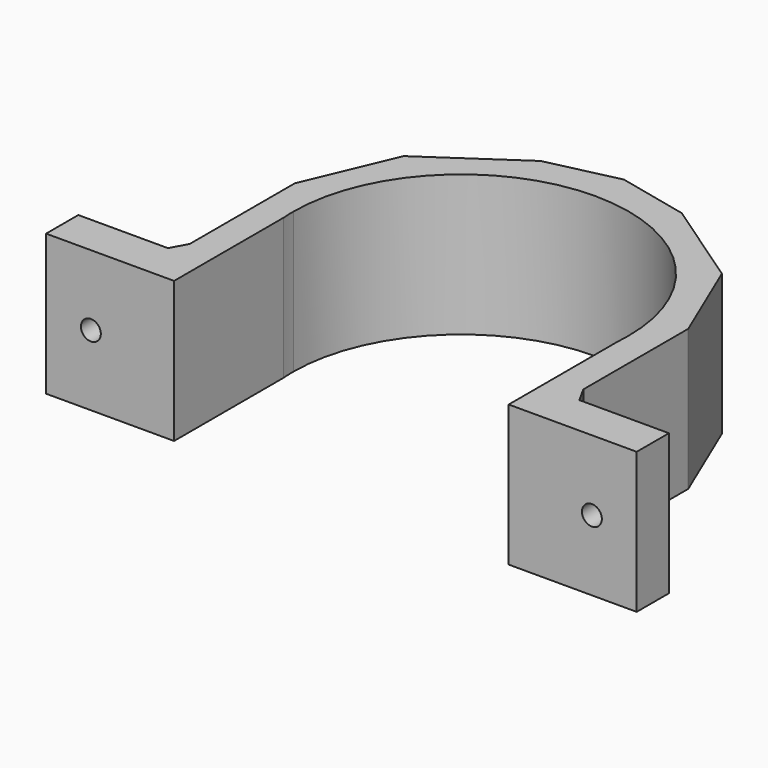
from build123d import *

# Parameters (mm, degrees)
F1_DEPTH = 21
F2_R     = 1.482571
F3_DEPTH = 6.001


with BuildPart() as f1:
    # F0 (on Top) → F1 (new body)
    with BuildSketch(Plane.XY):
        with BuildLine():
            ThreePointArc((25, 22.307473), (24.982152, 21.362986), (24.928635, 20.419847))
            Line((24.928635, 20.419847), (24.928635, 0))
            Line((24.928635, 0), (28, 0))
            Line((28, 0), (44, 0))
            Line((44, 0), (44, 6))
            Line((44, 6), (30.651433, 6))
            Line((30.651433, 6), (29.325717, 8.401437))
            Line((29.325717, 8.401437), (29.325717, 27.943285))
            Line((29.325717, 27.943285), (23.699379, 41.248079))
            Line((23.699379, 41.248079), (10.514447, 50.237805))
            Line((10.514447, 50.237805), (0, 52.635066))
            Line((0, 52.635066), (-10.514447, 50.237805))
            Line((-10.514447, 50.237805), (-23.699379, 41.248079))
            Line((-23.699379, 41.248079), (-29.325717, 27.943285))
            Line((-29.325717, 27.943285), (-29.325717, 8.401437))
            Line((-29.325717, 8.401437), (-30.651433, 6))
            Line((-30.651433, 6), (-44, 6))
            Line((-44, 6), (-44, 0))
            Line((-44, 0), (-28, 0))
            Line((-28, 0), (-24.928635, 0))
            Line((-24.928635, 0), (-24.928635, 20.419847))
            ThreePointArc((-24.928635, 20.419847), (-24.982152, 21.362986), (-25, 22.307473))
            ThreePointArc((-25, 22.307473), (0, 47.307473), (25, 22.307473))
        make_face()
    extrude(amount=F1_DEPTH)

    # F2 (on face) → F3 (cut, through all)
    with BuildSketch(Plane(origin=(0, 6, 0), x_dir=(-1, 0, 0), z_dir=(0, 1, 0))):
        with Locations((-37.325717, 10.5)):
            Circle(F2_R)
        with Locations((37.325717, 10.5)):
            Circle(F2_R)
    extrude(amount=-F3_DEPTH, mode=Mode.SUBTRACT)


solid = f1.part
